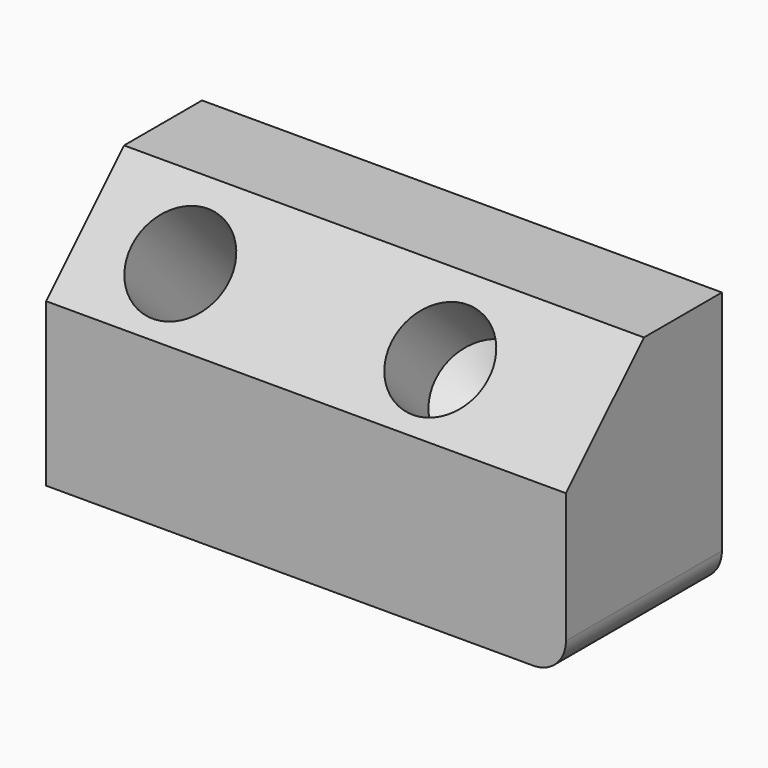
from build123d import *

# Parameters (mm, degrees)
F0_W     = 80
F0_H     = 30
F1_DEPTH = 40
F2_SIZE  = 15
F4_D     = 15
F6_D     = 15
F6_DEPTH = 12
F6_TIP   = 4.5064546427
F7_R     = 5


with BuildPart() as f1:
    # F0 (on Top) → F1 (new body)
    with BuildSketch(Plane.XY):
        with Locations((-40, -15)):
            Rectangle(F0_W, F0_H)
    extrude(amount=F1_DEPTH)

    # F2
    f2_edges = [f1.edges().sort_by_distance(p)[0] for p in [
        (-40, -30, 40),
    ]]
    chamfer(f2_edges, length=F2_SIZE)

    # F4 (through all)
    with Locations(Plane(origin=(0, -27.5, 27.5), x_dir=(1, 0, 0), z_dir=(0, -0.7071067812, 0.7071067812))):
        with Locations((-65, 6.4644660941)):
            Hole(F4_D / 2)

    # F6
    with Locations(Plane(origin=(0, -27.5, 27.5), x_dir=(1, 0, 0), z_dir=(0, -0.7071067812, 0.7071067812))):
        with Locations((-24.9926396036, 6.4644660941)):
            Hole(F6_D / 2, depth=F6_DEPTH)
            with Locations((0, 0, -(F6_DEPTH + F6_TIP / 2))):  # 118° drill point
                Cone(0, F6_D / 2, F6_TIP, mode=Mode.SUBTRACT)

    # F7
    f7_edges = [f1.edges().sort_by_distance(p)[0] for p in [
        (0, -15, 0),
    ]]
    fillet(f7_edges, radius=F7_R)


solid = f1.part
